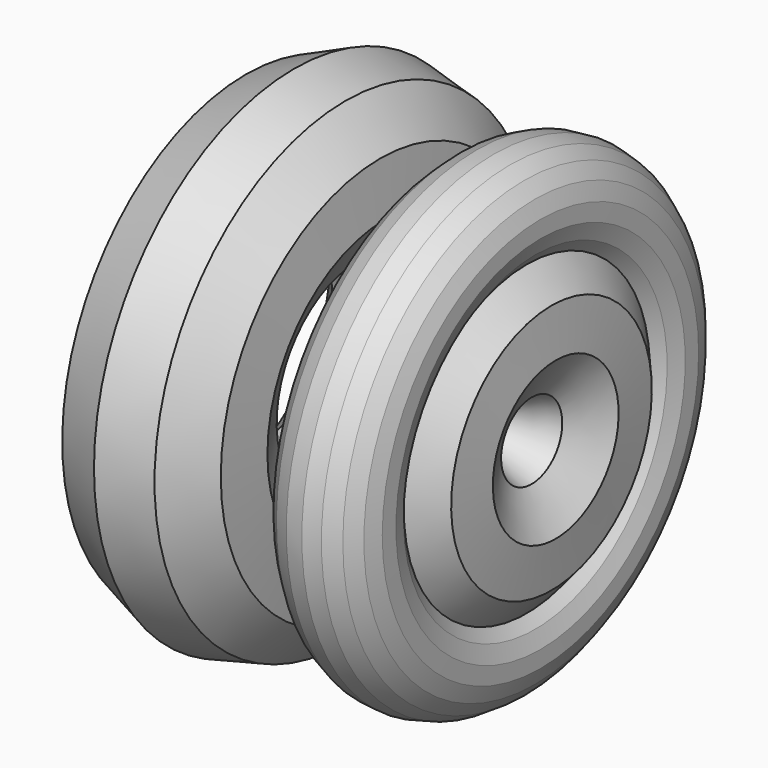
from build123d import *


with BuildPart() as f1:
    # F0 (on Front) → F1 (revolve)
    with BuildSketch(Plane.XZ):
        Polygon((-45.0308947828, 26.2801748051), (-38.0739466283, 37.9537019597), (-39.307184446, 51.4869753384), (-48.2595533058, 61.7107444894), (-61.5115525832, 64.7198770903), (-74.0013689729, 59.3649867641), (-80.9583171275, 47.6914596094), (-79.7250793098, 34.1581862307), (-70.77271045, 23.9344170797), (-57.5207111726, 20.9252844789), align=None)
        Polygon((-61.7251158268, 51.0529493512), (-56.4039748873, 47.3399712894), (-54.2815151845, 41.208420768), (-56.1684441853, 35.0003416825), (-61.3440191456, 31.0870092387), (-67.8313463419, 30.9631834208), (-73.1524872814, 34.6761614826), (-75.2749469842, 40.8077120039), (-73.3880179834, 47.0157910894), (-68.2124430231, 50.9291235333), align=None, mode=Mode.SUBTRACT)
    revolve(axis=Axis((2.086693421, 0, 0), (1, 0, 0)))


with BuildPart() as f1b:
    # F0 (on Front) → F1, piece 2 (revolve)
    with BuildSketch(Plane.XZ):
        Polygon((-26.0218361549, 39.4749160847), (-32.244958291, 29.0327245334), (-31.1418036618, 16.9269546951), (-23.1337398406, 7.781599188), (-11.2795750232, 5.0898729766), (-0.1071972616, 9.8799239853), (6.1159248745, 20.3221155366), (5.0127702452, 32.4278853749), (-1.3843403312, 39.7335027809), (-1.8173552669, 39.164858725), (-5.4407088466, 36.7425451944), (-9.6542630528, 35.6279802765), (-14.001413907, 35.9419443742), (-18.0110801614, 37.6504146061), (-21.2487522607, 40.5682517129), (-21.6759914137, 41.3381558024), align=None)
        Polygon((-23.3635781955, 44.379262769), (-21.6759914137, 41.3381558024), (-14.8494583933, 44.2649670934), (-2.9952935759, 41.573240882), (-1.3843403312, 39.7335027809), (0.8231511039, 42.6324256112), (2.194670429, 46.7694811759), (2.148577308, 51.1277112557), (0.6898666458, 55.2348339965), (-2.023387623, 58.6457789209), (-5.697162298, 60.9909172199), (-9.9333468887, 62.0161167704), (-14.2728850634, 61.6102812934), (-18.2455205261, 59.81738936), (-21.4207565826, 56.8317286308), (-23.4545071373, 52.9768417731), (-24.1263837607, 48.6704655927), align=None)
        Polygon((-14.8494583933, 44.2649670934), (-21.6759914137, 41.3381558024), (-21.2487522607, 40.5682517129), (-18.0110801614, 37.6504146061), (-14.001413907, 35.9419443742), (-9.6542630528, 35.6279802765), (-5.4407088466, 36.7425451944), (-1.8173552669, 39.164858725), (-1.3843403312, 39.7335027809), (-2.9952935759, 41.573240882), align=None)
    revolve(axis=Axis((2.086693421, 0, 0), (1, 0, 0)))


solid = Compound([f1.part, f1b.part])
